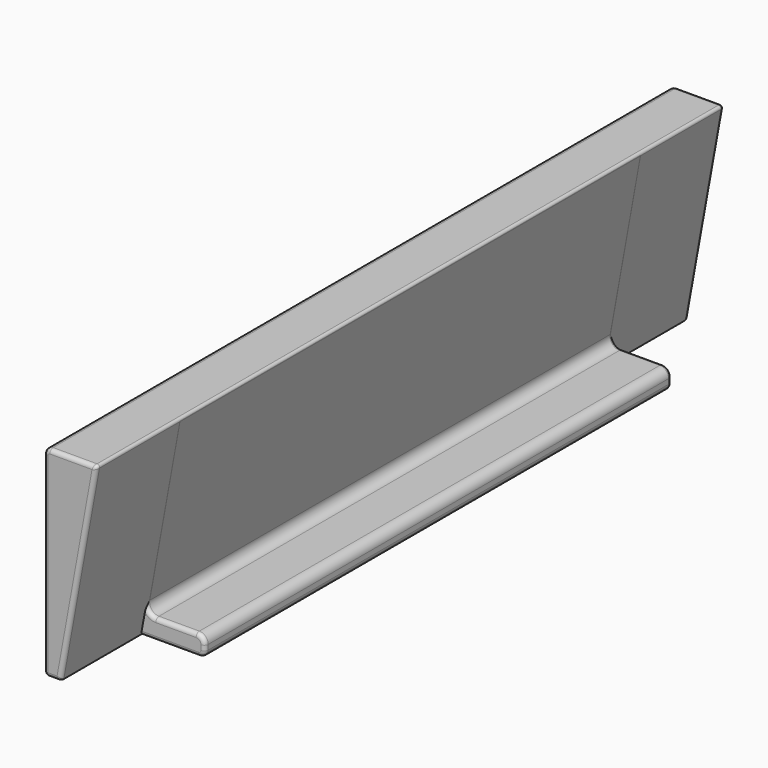
from build123d import *

# Parameters (mm, degrees)
EXTRUDE001_DEPTH      = 170
EXTRUDE001_DEPTH_BACK = 25
EXTRUDE_DEPTH         = 145
FILLET_R              = 1
FILLET001_R           = 1


with BuildPart() as extrude001:
    # Sketch001 → Extrude001 (new body, two sides)
    with BuildSketch(Plane.XZ) as extrude001_sk:
        with BuildLine():
            Line((-18.336975, -4.599435), (-9.5, 44.269675))
            ThreePointArc((-9.5, 44.269675), (-9.634289, 44.777491), (-10.110105, 45))
            Line((-10.110105, 45), (-21.031197, 45))
            ThreePointArc((-21.031197, 45), (-22.069798, 44.569798), (-22.5, 43.531197))
            Line((-22.5, 43.531197), (-22.5, -4.084046))
            ThreePointArc((-22.5, -4.084046), (-22.231723, -4.731723), (-21.584046, -5))
            Line((-21.584046, -5), (-18.81647, -5))
            ThreePointArc((-18.81647, -5), (-18.504073, -4.886682), (-18.336975, -4.599435))
        make_face()
    extrude(amount=EXTRUDE001_DEPTH)
    extrude(extrude001_sk.sketch, amount=-EXTRUDE001_DEPTH_BACK)


with BuildPart() as fillet001:
    # Sketch → Extrude (new body)
    with BuildSketch(Plane.XZ):
        with BuildLine():
            Line((-4.690516, 0), (-14.717051, 0))
            ThreePointArc((-17.006162, 2.739987), (-16.502237, 0.834781), (-14.717051, 0))
            Line((-17.006162, 2.739987), (-9.5, 44.265571))
            ThreePointArc((-9.5, 44.265571), (-9.635072, 44.776244), (-10.113575, 45))
            Line((-10.113575, 45), (-21.031197, 45))
            ThreePointArc((-21.031197, 45), (-22.069798, 44.569798), (-22.5, 43.531197))
            Line((-22.5, 43.531197), (-22.5, -4.084046))
            ThreePointArc((-22.5, -4.084046), (-22.231723, -4.731723), (-21.584046, -5))
            Line((-21.584046, -5), (-4.064727, -5))
            ThreePointArc((-4.064727, -5), (-2.958298, -4.541702), (-2.5, -3.435273))
            Line((-2.5, -3.435273), (-2.5, -2.190516))
            ThreePointArc((-2.5, -2.190516), (-3.141587, -0.641587), (-4.690516, 0))
        make_face()
    extrude(amount=EXTRUDE_DEPTH)

    # Fillet
    fillet_edges = [fillet001.edges().sort_by_distance(p)[0] for p in [
        (-9.703783, 0, 0),
        (-9.703783, -145, 0),
        (-16.502237, 0, 0.834781),
        (-16.502237, -145, 0.834781),
        (-12.824386, 0, -5),
        (-12.824386, -145, -5),
        (-2.958298, 0, -4.541702),
        (-2.958298, -145, -4.541702),
        (-2.5, 0, -2.812895),
        (-2.5, -145, -2.812895),
        (-3.141587, 0, -0.641587),
        (-3.141587, -145, -0.641587),
    ]]
    fillet(fillet_edges, radius=FILLET_R)

    # Fusion: union Extrude001
    add(extrude001.part)

    # Fillet001
    fillet001_edges = [fillet001.edges().sort_by_distance(p)[0] for p in [
        (-13.918487, 25, 19.83512),
        (-13.918487, -170, 19.83512),
        (-9.634289, 25, 44.777491),
        (-15.570651, 25, 45),
        (-22.069798, 25, 44.569798),
        (-22.5, 25, 19.723576),
        (-22.231723, 25, -4.731723),
        (-20.200258, 25, -5),
        (-18.504073, 25, -4.886682),
        (-9.634289, -170, 44.777491),
        (-15.570651, -170, 45),
        (-22.069798, -170, 44.569798),
        (-22.5, -170, 19.723575),
        (-22.231723, -170, -4.731723),
        (-20.200258, -170, -5),
        (-18.504073, -170, -4.886682),
    ]]
    fillet(fillet001_edges, radius=FILLET001_R)


solid = fillet001.part
